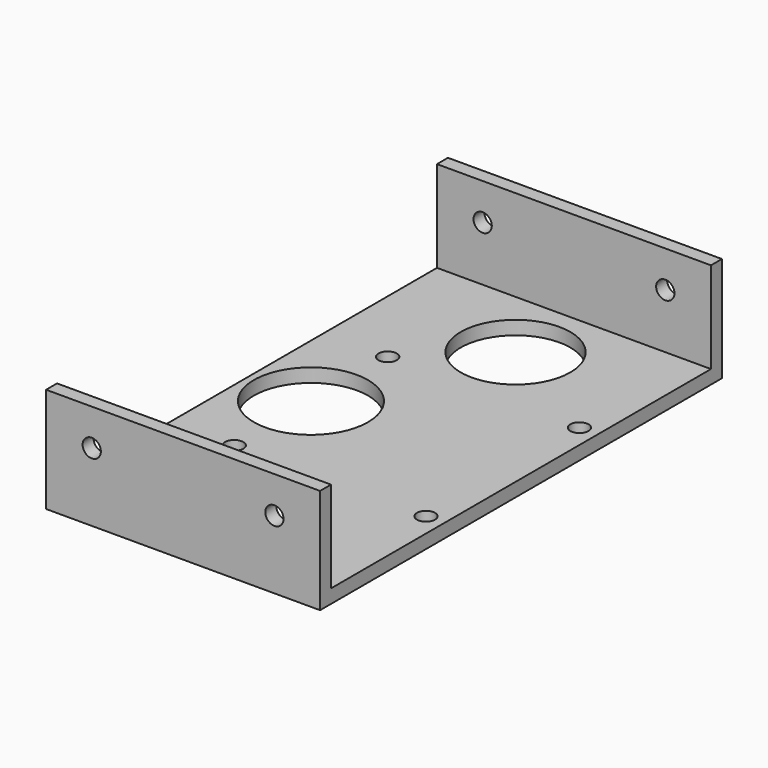
from build123d import *

# Parameters (mm, degrees)
F0_W     = 30
F0_H     = 55
F0_R     = 1
F0_R_2   = 6
F0_R_3   = 6.25
F1_DEPTH = 1.5
F2_W     = 30
F2_H     = 1.5
F3_DEPTH = 10
F4_R     = 1
F5_DEPTH = 55.001


with BuildPart() as f1:
    # F0 (on Top) → F1 (new body)
    with BuildSketch(Plane.XY):
        with Locations((0, 7.5)):
            Rectangle(F0_W, F0_H)
        with Locations((-8, -3)):
            Circle(F0_R, mode=Mode.SUBTRACT)
        with Locations((0, -10.5)):
            Circle(F0_R_2, mode=Mode.SUBTRACT)
        with Locations((13, -3)):
            Circle(F0_R, mode=Mode.SUBTRACT)
        with Locations((-8, 7.5)):
            Circle(F0_R_3, mode=Mode.SUBTRACT)
        with Locations((-8, 18)):
            Circle(F0_R, mode=Mode.SUBTRACT)
        with Locations((13, 18)):
            Circle(F0_R, mode=Mode.SUBTRACT)
        with Locations((0, 25.5)):
            Circle(F0_R_2, mode=Mode.SUBTRACT)
    extrude(amount=F1_DEPTH)

    # F2 (on face) → F3 (join)
    with BuildSketch(Plane.XY.offset(1.5)):
        with Locations((0, 34.25)):
            Rectangle(F2_W, F2_H)
        with Locations((0, -19.25)):
            Rectangle(F2_W, F2_H)
    extrude(amount=F3_DEPTH)

    # F4 (on face) → F5 (cut, through all)
    with BuildSketch(Plane(origin=(0, 35, 0), x_dir=(-1, 0, 0), z_dir=(0, 1, 0))):
        with Locations((-10, 7.5)):
            Circle(F4_R)
        with Locations((10, 7.5)):
            Circle(F4_R)
    extrude(amount=-F5_DEPTH, mode=Mode.SUBTRACT)


solid = f1.part
